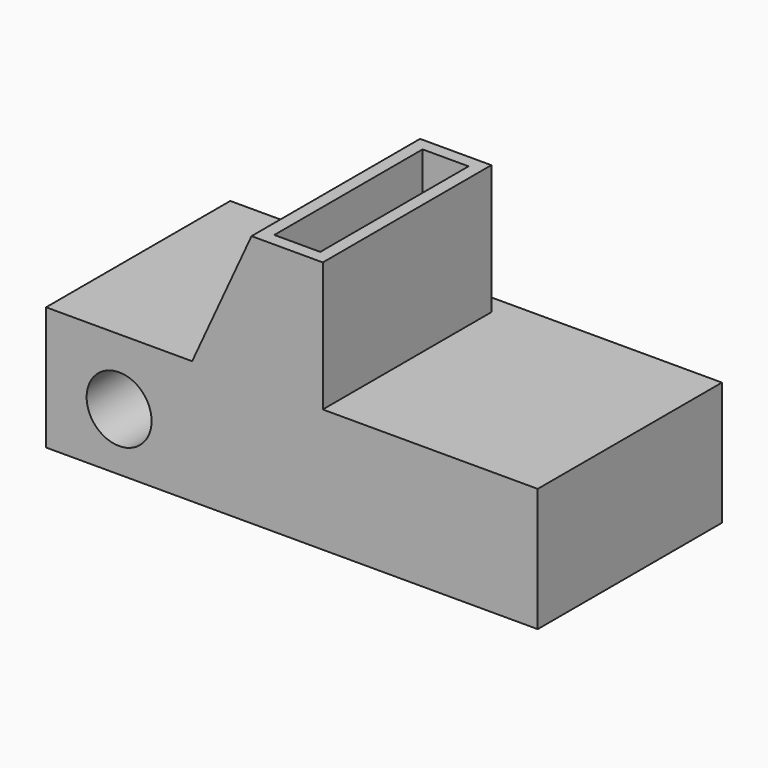
from build123d import *

# Parameters (mm, degrees)
F0_W     = 108.4789782763
F0_H     = 27.2507588379
F1_DEPTH = 50.8
F3_DEPTH = 46.482
F4_R     = 7.1675152866
F5_DEPTH = 50.801
F6_W     = 10.1335914806
F6_H     = 40.894000291
F7_DEPTH = 26.162


with BuildPart() as f1:
    # F0 (on Front) → F1 (new body)
    with BuildSketch(Plane.XZ):
        with Locations((1.3101398945, 20.7000973169)):
            Rectangle(F0_W, F0_H)
    extrude(amount=F1_DEPTH)

    # F2 (on face) → F3 (join)
    with BuildSketch(Plane.XZ.offset(50.8)):
        Polygon((-7.5987614691, 62.886364758), (-20.7000877708, 34.3254767358), (8.1228297204, 34.3254767358), (8.1228297204, 62.886364758), align=None)
    extrude(amount=-F3_DEPTH)

    # F4 (on face) → F5 (cut, through all)
    with BuildSketch(Plane.XZ.offset(50.8)):
        with Locations((-36.8147185072, 19.7747178979)):
            Circle(F4_R)
    extrude(amount=-F5_DEPTH, mode=Mode.SUBTRACT)

    # F6 (on face) → F7 (cut)
    with BuildSketch(Plane.XY.offset(62.886364758)):
        with Locations((0.2620341256, -27.559)):
            Rectangle(F6_W, F6_H)
    extrude(amount=-F7_DEPTH, mode=Mode.SUBTRACT)


solid = f1.part
